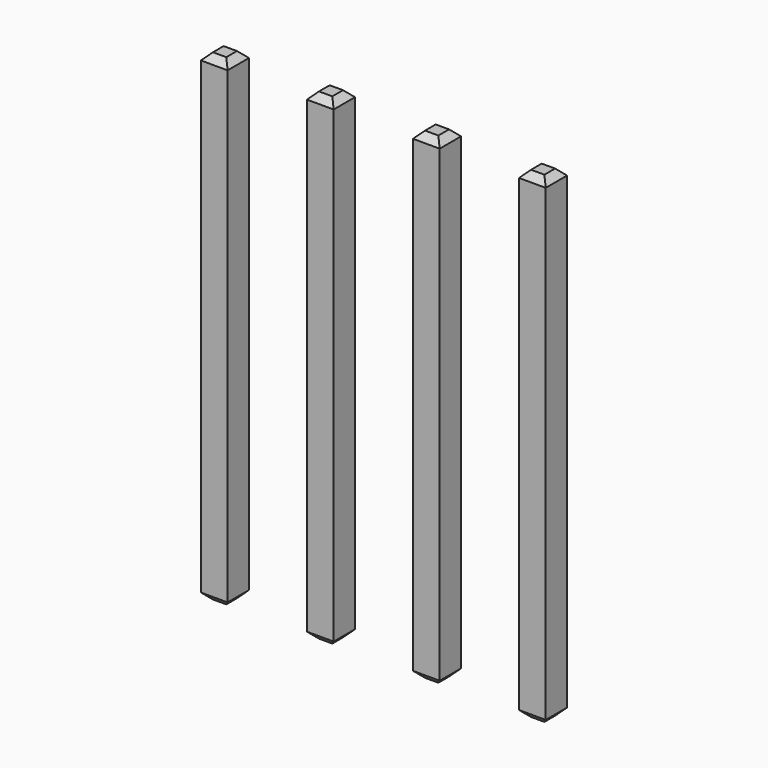
from build123d import *

# Parameters (mm, degrees)
SKETCH215_W       = 0.64
SKETCH215_H       = 11.54
PAD070_DEPTH      = 0.32
PAD070_DEPTH_BACK = 0.32
CHAMFER028_SIZE   = 0.16
ARRAY008_X_COUNT  = 4
ARRAY008_X_PITCH  = 2.54


with BuildPart() as part:
    # Sketch215 → Pad070 (new body, two sides)
    with BuildSketch(Plane.XZ) as pad070_sk:
        with Locations((0, 2.77)):
            Rectangle(SKETCH215_W, SKETCH215_H)
    extrude(amount=PAD070_DEPTH)
    extrude(pad070_sk.sketch, amount=-PAD070_DEPTH_BACK)

    # Chamfer028
    chamfer028_edges = [part.edges().sort_by_distance(p)[0] for p in [
        (0.32, 0, 8.54),
        (-0.32, 0, 8.54),
        (0, 0.32, 8.54),
        (0, -0.32, 8.54),
        (-0.32, 0, -3),
        (0.32, 0, -3),
        (0, 0.32, -3),
        (0, -0.32, -3),
    ]]
    chamfer(chamfer028_edges, length=CHAMFER028_SIZE)

    # Array008 X: part ×4


with BuildPart() as part_1:
    add(part.part)
    with Locations(*[(i * ARRAY008_X_PITCH, 0, 0) for i in range(1, ARRAY008_X_COUNT)]):
        add(part.part)


solid = part_1.part
